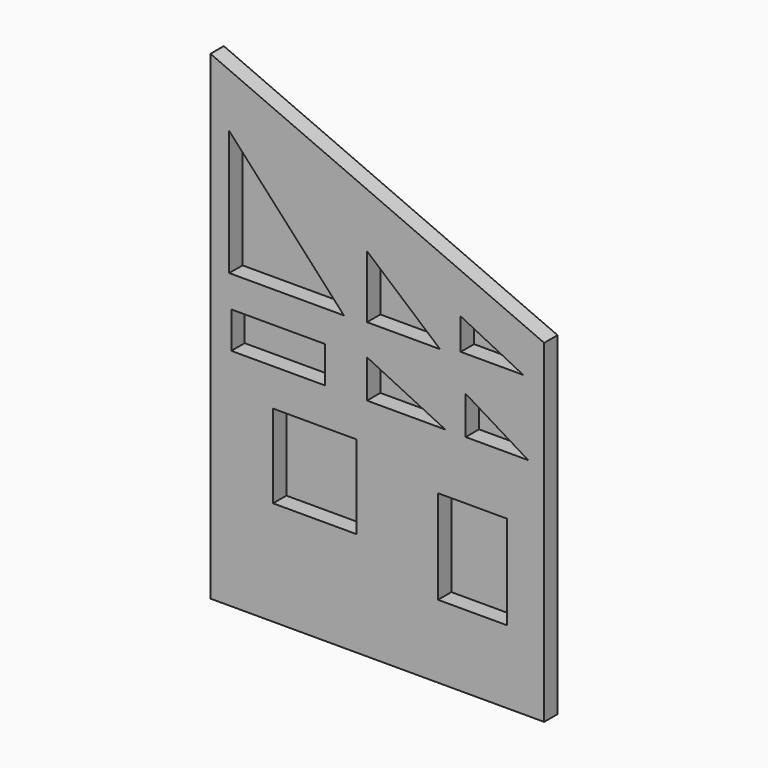
from build123d import *

# Parameters (mm, degrees)
F1_DEPTH = 243.84
F2_W     = 1371.6
F2_H     = 533.4
F2_W_2   = 1219.2
F2_H_2   = 1219.2
F2_W_3   = 1004.754603
F2_H_3   = 1371.6
F3_DEPTH = 243.80952


with BuildPart() as f1:
    # F0 (on Front) → F1 (new body)
    with BuildSketch(Plane.XZ):
        Polygon((-169.28589, 1190.391718), (-5046.08589, 3323.991718), (-5046.08589, -3686.408282), (-169.28589, -3686.408282), align=None)
    extrude(amount=F1_DEPTH)

    # F2 (on face) → F3 (cut)
    with BuildSketch(Plane.XZ.offset(243.84)):
        Polygon((-3095.989677, 591.610532), (-4772.389677, 2420.410532), (-4772.389677, 591.610532), align=None)
        Polygon((-1691.594337, 614.760013), (-2758.394337, 1529.160013), (-2758.394337, 614.760013), align=None)
        Polygon((-474.08589, 678.420737), (-1388.48589, 1135.620737), (-1388.48589, 678.420737), align=None)
        with Locations((-4055.48589, -132.289468)):
            Rectangle(F2_W, F2_H)
        Polygon((-1614.973909, -394.286305), (-2757.973909, 162.697271), (-2757.973909, -394.286305), align=None)
        Polygon((-401.969534, -394.286305), (-1316.369534, 162.697271), (-1316.369534, -394.286305), align=None)
        with Locations((-3522.08589, -1552.808282)):
            Rectangle(F2_W_2, F2_H_2)
        with Locations((-1218.078346, -1933.808282)):
            Rectangle(F2_W_3, F2_H_3)
    extrude(amount=-F3_DEPTH, mode=Mode.SUBTRACT)


solid = f1.part
